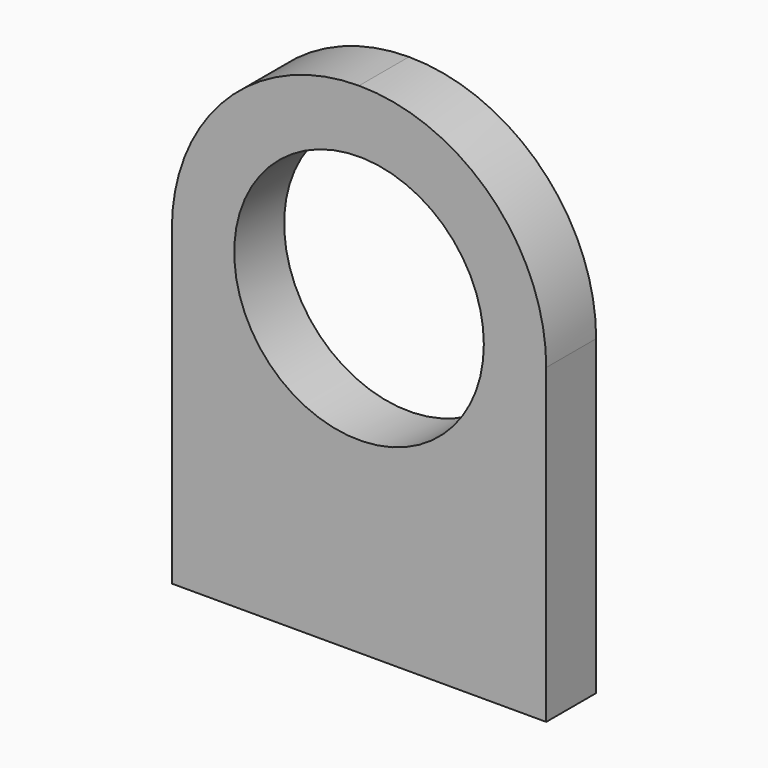
from build123d import *

# Parameters (mm, degrees)
F0_R     = 12.7
F1_DEPTH = 6.35


with BuildPart() as f1:
    # F0 (on Front) → F1 (new body)
    with BuildSketch(Plane.XZ):
        with BuildLine():
            Line((-19.05, -25.4), (19.05, -25.4))
            Line((19.05, -25.4), (19.05, 6.35))
            ThreePointArc((19.05, 6.35), (13.470384, 19.820384), (0, 25.4))
            ThreePointArc((0, 25.4), (-13.470384, 19.820384), (-19.05, 6.35))
            Line((-19.05, 6.35), (-19.05, -25.4))
        make_face()
        with Locations((0, 6.35)):
            Circle(F0_R, mode=Mode.SUBTRACT)
    extrude(amount=F1_DEPTH)


solid = f1.part
